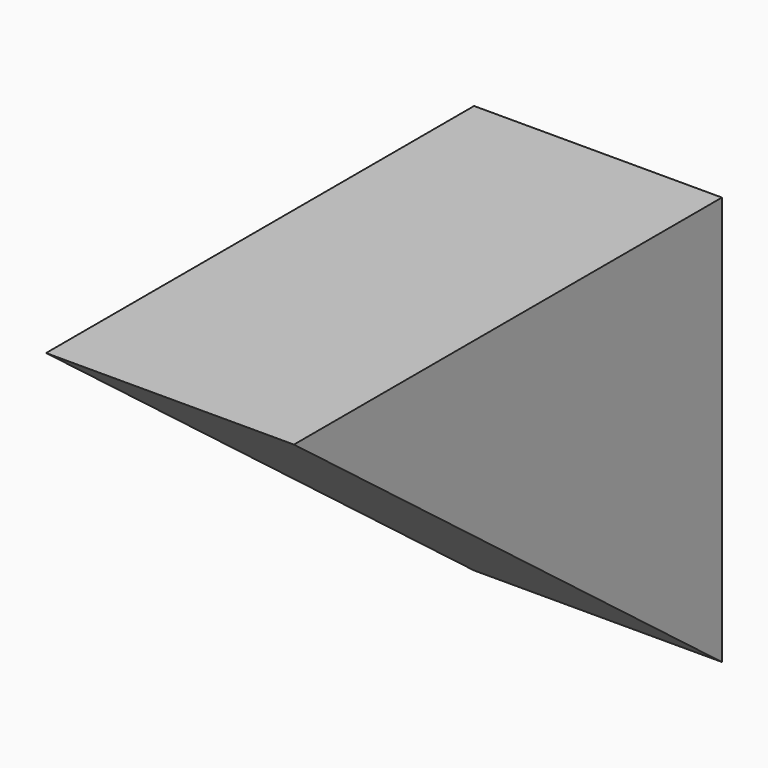
from build123d import *

# Parameters (mm, degrees)
F1_DEPTH = 76.2


with BuildPart() as f1:
    # F0 (on Right) → F1 (new body)
    with BuildSketch(Plane.YZ):
        Polygon((-164.47483, 125.715226), (0, 0), (0, 125.715226), align=None)
    extrude(amount=-F1_DEPTH)


solid = f1.part
